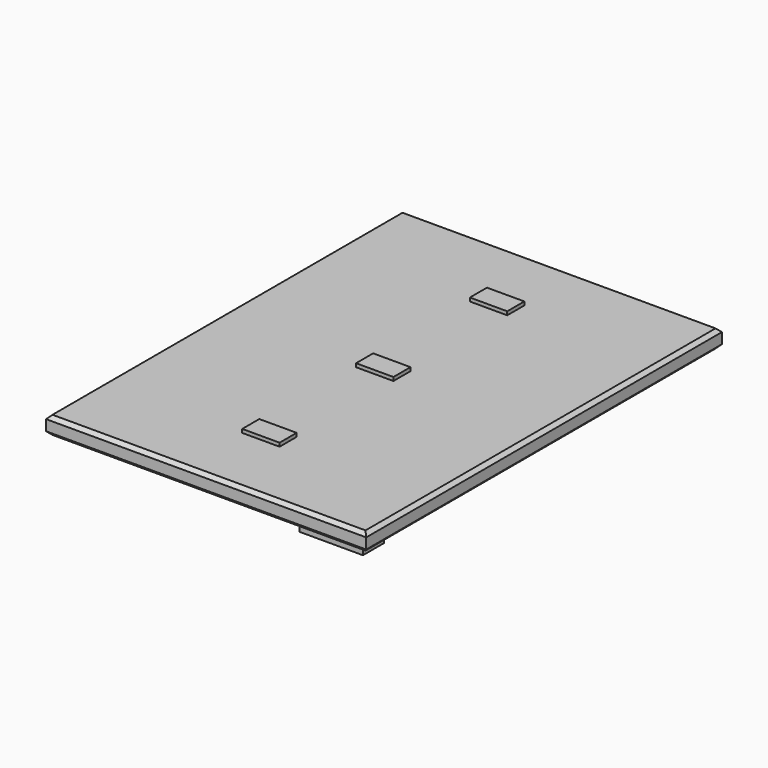
from build123d import *

# Parameters (mm, degrees)
F0_W     = 457.2
F0_H     = 635
F1_DEPTH = 25.4
F2_SIZE  = 5.08
F3_W     = 90.666391
F3_H     = 37.333221
F4_DEPTH = 25.4
F5_W     = 53.34
F5_H     = 30.48
F6_DEPTH = 5.08


with BuildPart() as f1:
    # F0 (on Top) → F1 (new body)
    with BuildSketch(Plane.XY):
        Rectangle(F0_W, F0_H)
    extrude(amount=F1_DEPTH)

    # F2
    f2_edges = [f1.edges().sort_by_distance(p)[0] for p in [
        (0, -317.5, 25.4),
        (-228.6, 0, 25.4),
        (0, 317.5, 25.4),
        (228.6, 0, 25.4),
        (228.6, 0, 0),
        (0, -317.5, 0),
        (-228.6, 0, 0),
        (0, 317.5, 0),
    ]]
    chamfer(f2_edges, length=F2_SIZE)

    # F3 (on face) → F4 (join)
    with BuildSketch(Plane(origin=(0, 0, 0), x_dir=(1, 0, 0), z_dir=(0, 0, -1))):
        with Locations((152.535525, 266.251489)):
            Rectangle(F3_W, F3_H)
    extrude(amount=F4_DEPTH)


with BuildPart() as f6:
    # F5 (on Top) → F6 (new body)
    with BuildSketch(Plane.XY):
        with Locations((-725.038501, 129.674196)):
            Rectangle(F5_W, F5_H)
    extrude(amount=F6_DEPTH)


with BuildPart() as f7_1:
    # F7: copy of F6
    add(f6.part.moved(Location((0, 203.2, 0))))


with BuildPart() as f8_1:
    # F8: copy of F6
    add(f6.part.moved(Location((0, -203.2, 0))))


with BuildPart() as f8_1_1:
    # F9: moved
    add(f8_1.part.moved(Location((723.9, -129.54, 27.94))))


with BuildPart() as f7_1_1:
    # F9: moved
    add(f7_1.part.moved(Location((723.9, -129.54, 27.94))))


with BuildPart() as f6_1:
    # F9: moved
    add(f6.part.moved(Location((723.9, -129.54, 27.94))))


solid = Compound([f1.part, f8_1_1.part, f7_1_1.part, f6_1.part])
